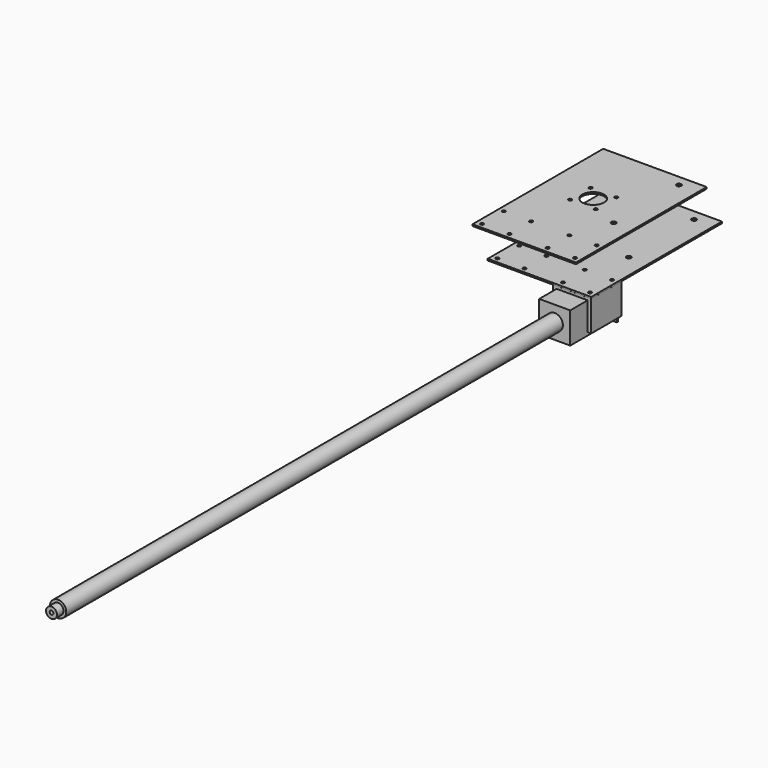
from build123d import *

# Parameters (mm, degrees)
F0_R          = 4
F1_DEPTH      = 125
F1_DEPTH_BACK = 15
F0_W          = 57
F0_H          = 57
F2_DEPTH      = 110
F3_D          = 6
F3_DEPTH      = 16
F3_TIP        = 1.8025818571
F4_R          = 12.5
F5_DEPTH      = 1100
F7_DEPTH      = 70
F9_DEPTH      = 96
F11_D         = 8
F11_DEPTH     = 16
F11_TIP       = 2.4034424761
F12_R         = 15
F13_DEPTH     = 1250
F15_DEPTH     = 3
F16_D         = 6
F17_D         = 8.5
F18_R         = 10
F19_DEPTH     = 1265
F20_D         = 8.8
F20_DEPTH     = 15.75
F20_TIP       = 2.6437867237
F23_D         = 6.8
F23_DEPTH     = 15.75
F23_TIP       = 2.0429261047
F24_R         = 20
F25_DEPTH     = 3
F26_D         = 6
F29_D         = 6
F30_D         = 40


with BuildPart() as f1:
    # F0 (on Front) → F1 (new body, two sides)
    with BuildSketch(Plane.XZ) as f1_sk:
        Circle(F0_R)
    extrude(amount=F1_DEPTH)
    extrude(f1_sk.sketch, amount=-F1_DEPTH_BACK)

    # F0 (on Front) → F2 (join)
    with BuildSketch(Plane.XZ):
        Rectangle(F0_W, F0_H)
        Circle(F0_R, mode=Mode.SUBTRACT)
    extrude(amount=F2_DEPTH)

    # F3
    with Locations(Plane(origin=(0, 0, 0), x_dir=(1, 0, 0), z_dir=(0, 1, 0))):
        with Locations((23.5, 23.5), (23.5, -23.5), (-23.5, -23.5), (-23.5, 23.5)):
            Hole(F3_D / 2, depth=F3_DEPTH)
            with Locations((0, 0, -(F3_DEPTH + F3_TIP / 2))):  # 118° drill point
                Cone(0, F3_D / 2, F3_TIP, mode=Mode.SUBTRACT)


with BuildPart() as f5:
    # F4 (on Front) → F5 (new body)
    with BuildSketch(Plane.XZ):
        Circle(F4_R)
    extrude(amount=F5_DEPTH)


with BuildPart() as f7:
    # F6 (on Front) → F7 (new body)
    with BuildSketch(Plane.XZ):
        with BuildLine():
            Line((35, 33), (0, 33))
            Line((0, 33), (0, 15))
            ThreePointArc((0, 15), (10.6066017178, 10.6066017178), (15, 0))
            ThreePointArc((15, 0), (12.0522065107, -8.9299674257), (4.3674242367, -14.3501082064))
            Line((4.3674242367, -14.3501082064), (7, -23))
            Line((7, -23), (35, -23))
            Line((35, -23), (35, 0))
            Line((35, 0), (35, 33))
        make_face()
        with BuildLine():
            Line((0, 15), (0, 33))
            Line((0, 33), (-35, 33))
            Line((-35, 33), (-35, 0))
            Line((-35, 0), (-35, -23))
            Line((-35, -23), (-7, -23))
            Line((-7, -23), (-4.3674242367, -14.3501082064))
            ThreePointArc((-4.3674242367, -14.3501082064), (-14.8366374744, 2.2077564294), (0, 15))
        make_face()
    extrude(amount=F7_DEPTH)

    # F11
    with Locations(Plane.XY.offset(33)):
        with Locations((-25, -60), (-25, -10), (25, -10), (25, -60)):
            Hole(F11_D / 2, depth=F11_DEPTH)
            with Locations((0, 0, -(F11_DEPTH + F11_TIP / 2))):  # 118° drill point
                Cone(0, F11_D / 2, F11_TIP, mode=Mode.SUBTRACT)


with BuildPart() as f9:
    # F8 (on Front) → F9 (new body)
    with BuildSketch(Plane.XZ):
        with BuildLine():
            Line((24, 23), (0, 23))
            Line((0, 23), (-24, 23))
            Line((-24, 23), (-24, 0))
            Line((-24, 0), (-24, -16))
            Line((-24, -16), (-5, -16))
            Line((-5, -16), (-2.9827499314, -9.5447997804))
            ThreePointArc((-2.9827499314, -9.5447997804), (0, 10), (2.9827499314, -9.5447997804))
            Line((2.9827499314, -9.5447997804), (5, -16))
            Line((5, -16), (24, -16))
            Line((24, -16), (24, 0))
            Line((24, 0), (24, 23))
        make_face()
    extrude(amount=F9_DEPTH)


with BuildPart() as f13:
    # F12 (on Front) → F13 (new body)
    with BuildSketch(Plane.XZ):
        Circle(F12_R)
    extrude(amount=F13_DEPTH)


with BuildPart() as f15:
    # F14 (on face) → F15 (new body)
    with BuildSketch(Plane.XY.offset(33)):
        Polygon((-35, -69.9207335711), (34.9716693163, -69.9207335711), (34.9716693163, 0), (0, 0), (-35, 0), align=None)
        Polygon((-155.0283306837, -69.9207335711), (-35, -69.9207335711), (-35, 0), (0, 0), (34.9716693163, 0), (34.9716693163, 230.0792664289), (-155.0283306837, 230.0792664289), align=None)
    extrude(amount=F15_DEPTH)

    # F16 (through all)
    with Locations(Plane(origin=(0, 0, 33), x_dir=(1, 0, 0), z_dir=(0, 0, -1))):
        with Locations((-145, 10.4108385742), (-95, 10.4108385742), (-95, 60.4108385742), (-145, 60.4108385742), (-25.0283306837, 9.9207335711), (-25.0283306837, 59.9207335711), (24.9716693163, 59.9207335711), (24.9716693163, 9.9207335711)):
            Hole(F16_D / 2)

    # F17 (through all)
    with Locations(Plane(origin=(0, 0, 33), x_dir=(1, 0, 0), z_dir=(0, 0, -1))):
        with Locations((-0.0283306837, -210.0792664289), (-0.0283306837, -60.0792664289)):
            Hole(F17_D / 2)


with BuildPart() as f19:
    # F18 (on Front) → F19 (new body)
    with BuildSketch(Plane.XZ):
        Circle(F18_R)
    extrude(amount=F19_DEPTH)

    # F20
    with Locations(Plane(origin=(0, 0, 0), x_dir=(1, 0, 0), z_dir=(0, 1, 0))):
        with Locations((0, 0)):
            Hole(F20_D / 2, depth=F20_DEPTH)
            with Locations((0, 0, -(F20_DEPTH + F20_TIP / 2))):  # 118° drill point
                Cone(0, F20_D / 2, F20_TIP, mode=Mode.SUBTRACT)

    # F23
    with Locations(Plane.XZ.offset(1265)):
        with Locations((0, 0)):
            Hole(F23_D / 2, depth=F23_DEPTH)
            with Locations((0, 0, -(F23_DEPTH + F23_TIP / 2))):  # 118° drill point
                Cone(0, F23_D / 2, F23_TIP, mode=Mode.SUBTRACT)


with BuildPart() as f25:
    # F24 (on Front) → F25 (new body)
    with BuildSketch(Plane.XZ):
        Polygon((28.5, 28.5), (-28.5, 28.5), (-28.5, -31.5), (-28.5, -34.5), (28.5, -34.5), (28.5, -31.5), align=None)
        Circle(F24_R, mode=Mode.SUBTRACT)
    extrude(amount=F25_DEPTH)

    # F26 (through all)
    with Locations(Plane(origin=(0, 0, 0), x_dir=(1, 0, 0), z_dir=(0, 1, 0))):
        with Locations((-23.57, -23.57), (23.57, -23.57), (23.57, 23.57), (-23.57, 23.57)):
            Hole(F26_D / 2)


with BuildPart() as f27_1:
    # F27: copy of F15
    add(f15.part.moved(Location((-60, 40, 20))))

    # F29 (through all)
    with Locations(Plane.XY.offset(56)):
        with Locations((-153.375713892, 117.0061008913), (-153.375713892, 164.1461008913), (-106.235713892, 164.1461008913), (-106.235713892, 117.0061008913)):
            Hole(F29_D / 2)

    # F30 (through all)
    with Locations(Plane.XY.offset(56)):
        with Locations((-129.805713892, 140.5761008913)):
            Hole(F30_D / 2)


solid = Compound([f1.part, f5.part, f7.part, f9.part, f13.part, f15.part, f19.part, f25.part, f27_1.part])
